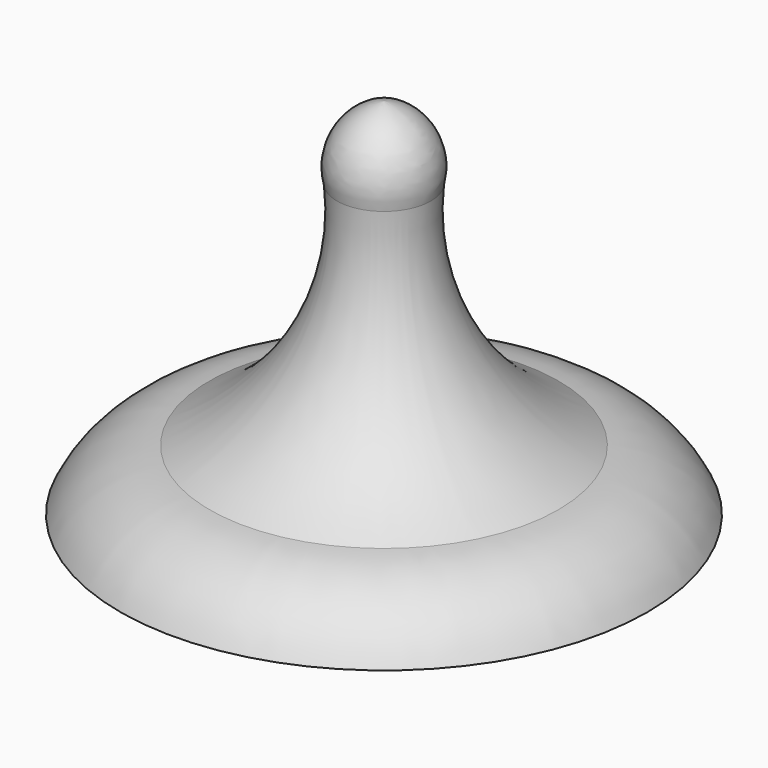
from build123d import *


with BuildPart() as f1:
    # F0 (on Front) → F1 (revolve)
    with BuildSketch(Plane.XZ):
        with BuildLine():
            Line((0, 0), (51.343314, 0))
            ThreePointArc((51.343314, 0), (44.292522, 8.342641), (33.943638, 11.837486))
            ThreePointArc((33.943638, 11.837486), (14.532124, 30.347932), (9.127703, 56.62027))
            ThreePointArc((9.127703, 56.62027), (7.678247, 65.69937), (0, 70.756592))
            Line((0, 70.756592), (0, 0))
        make_face()
    revolve(axis=Axis((0, 0, 35.378296), (0, 0, -1)))


solid = f1.part
